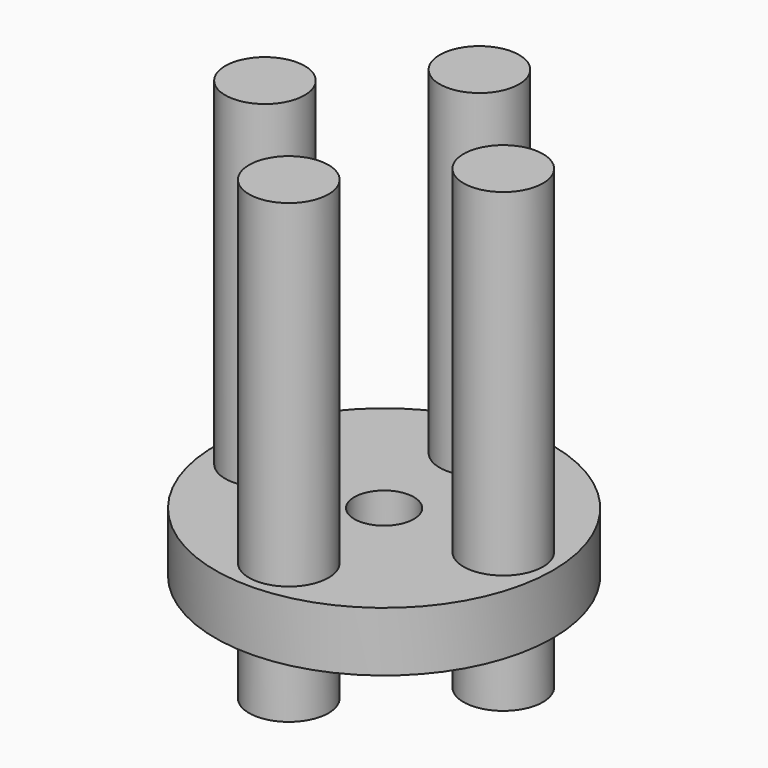
from build123d import *

# Parameters (mm, degrees)
SKETCH_R          = 8.5
SKETCH_R_2        = 1.5
PAD_DEPTH         = 3
SKETCH001_R       = 2
PAD001_DEPTH      = 3
PAD001_DEPTH_BACK = 20


with BuildPart() as part:
    # Sketch → Pad (new body)
    with BuildSketch(Plane.XY):
        Circle(SKETCH_R)
        Circle(SKETCH_R_2, mode=Mode.SUBTRACT)
    extrude(amount=PAD_DEPTH)

    # Sketch001 → Pad001 (new body, two sides)
    with BuildSketch(Plane(origin=(0, 0, 0), x_dir=(1, 0, 0), z_dir=(0, 0, -1))) as pad001_sk:
        with Locations((0, 6)):
            Circle(SKETCH001_R)
        with Locations((6, 0)):
            Circle(SKETCH001_R)
        with Locations((-6, 0)):
            Circle(SKETCH001_R)
        with Locations((0, -6)):
            Circle(SKETCH001_R)
    extrude(amount=PAD001_DEPTH)
    extrude(pad001_sk.sketch, amount=-PAD001_DEPTH_BACK)


solid = part.part
